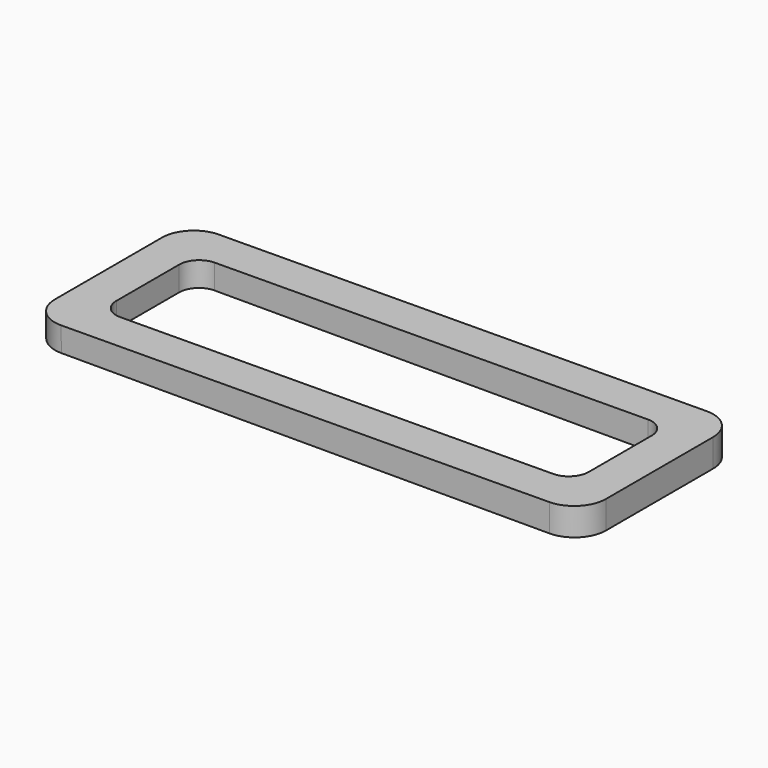
from build123d import *

# Parameters (mm, degrees)
F3_DEPTH = 31.75
F5_DEPTH = 4.48238
F6_R     = 5.08


with BuildPart() as f3:
    # F2 (on Front) → F3 (new body)
    with BuildSketch(Plane.XZ):
        Polygon((444.5, 0), (444.5, 4.48138), (355.574593, 3.902439), (355.6, 0), align=None)
    extrude(amount=F3_DEPTH)

    # F4 (on face) → F5 (cut, through all)
    with BuildSketch(Plane(origin=(0, 0, 0), x_dir=(1, 0, 0), z_dir=(0, 0, -1))):
        with BuildLine():
            Line((434.975, 25.4), (365.099593, 25.4))
            ThreePointArc((365.099593, 25.4), (362.854529, 24.470064), (361.924593, 22.225))
            Line((361.924593, 22.225), (361.924593, 9.525))
            ThreePointArc((361.924593, 9.525), (362.854529, 7.279936), (365.099593, 6.35))
            Line((365.099593, 6.35), (434.975, 6.35))
            ThreePointArc((434.975, 6.35), (437.220064, 7.279936), (438.15, 9.525))
            Line((438.15, 9.525), (438.15, 22.225))
            ThreePointArc((438.15, 22.225), (437.220064, 24.470064), (434.975, 25.4))
        make_face()
    extrude(amount=-F5_DEPTH, mode=Mode.SUBTRACT)

    # F6
    f6_edges = [f3.edges().sort_by_distance(p)[0] for p in [
        (444.5, -31.75, 2.24069),
        (355.587297, -31.75, 1.951219),
        (355.587297, 0, 1.951219),
        (444.5, 0, 2.24069),
    ]]
    fillet(f6_edges, radius=F6_R)


solid = f3.part
